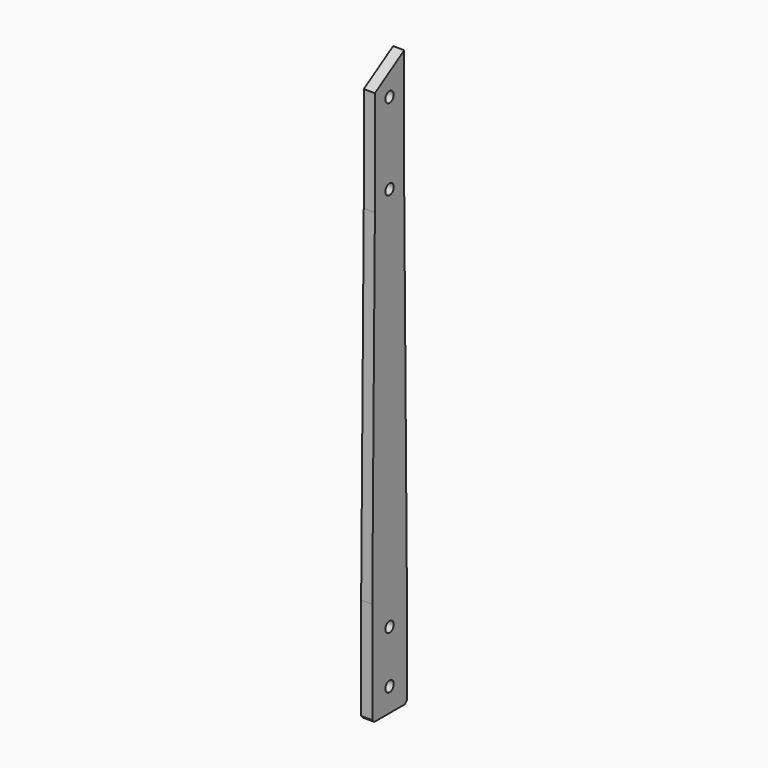
from build123d import *

# Parameters (mm, degrees)
F0_R     = 12.7
F1_DEPTH = 26.9875
F2_SIZE  = 6.35


with BuildPart() as f1:
    # F0 (on Right) → F1 (new body)
    with BuildSketch(Plane.YZ):
        Polygon((-52.3875, 0), (52.3875, 0), (52.3875, 254), (44.45, 1085.85), (44.45, 1396.200443), (-44.45, 1340.649557), (-44.45, 1085.85), (-52.3875, 254), align=None)
        with Locations((0, 57.15)):
            Circle(F0_R, mode=Mode.SUBTRACT)
        with Locations((0, 184.15)):
            Circle(F0_R, mode=Mode.SUBTRACT)
        with Locations((0, 1117.6)):
            Circle(F0_R, mode=Mode.SUBTRACT)
        with Locations((0, 1314.45)):
            Circle(F0_R, mode=Mode.SUBTRACT)
    extrude(amount=F1_DEPTH)

    # F2
    f2_edges = [f1.edges().sort_by_distance(p)[0] for p in [
        (13.49375, -52.3875, 0),
        (13.49375, 52.3875, 0),
    ]]
    chamfer(f2_edges, length=F2_SIZE)


solid = f1.part
